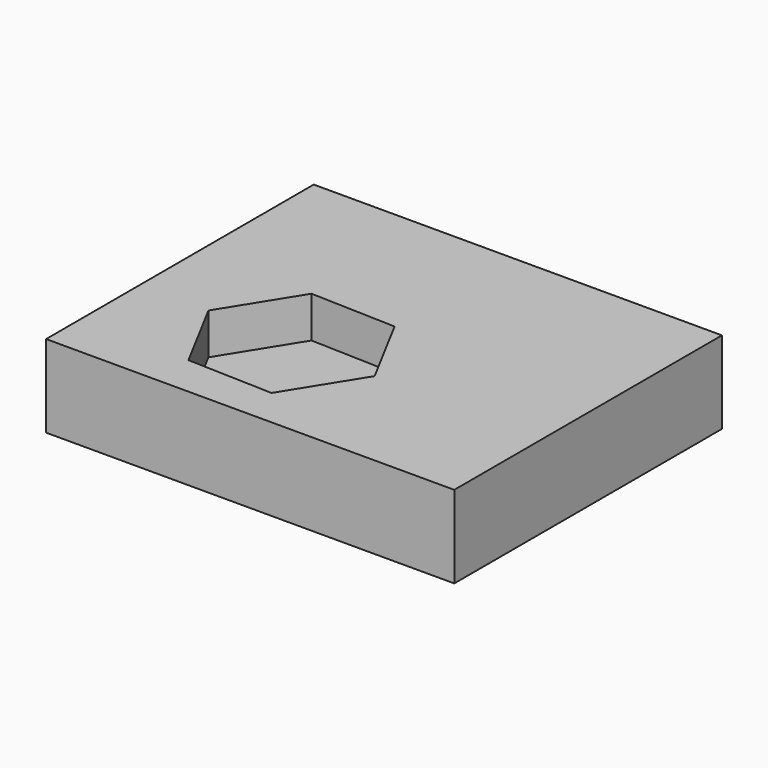
from build123d import *

# Parameters (mm, degrees)
F0_W     = 31.449463
F0_H     = 25.777796
F1_DEPTH = 6.35
F3_DEPTH = 3.175


with BuildPart() as f1:
    # F0 (on Top) → F1 (new body)
    with BuildSketch(Plane.XY):
        with Locations((15.724731, 12.888898)):
            Rectangle(F0_W, F0_H)
    extrude(amount=F1_DEPTH)

    # F2 (on face) → F3 (cut)
    with BuildSketch(Plane.XY.offset(6.35)):
        Polygon((18.451915, 8.573886), (15.351611, 14.374847), (8.77768, 14.590386), (5.304053, 9.004964), (8.404356, 3.204003), (14.978287, 2.988464), align=None)
    extrude(amount=-F3_DEPTH, mode=Mode.SUBTRACT)


solid = f1.part
